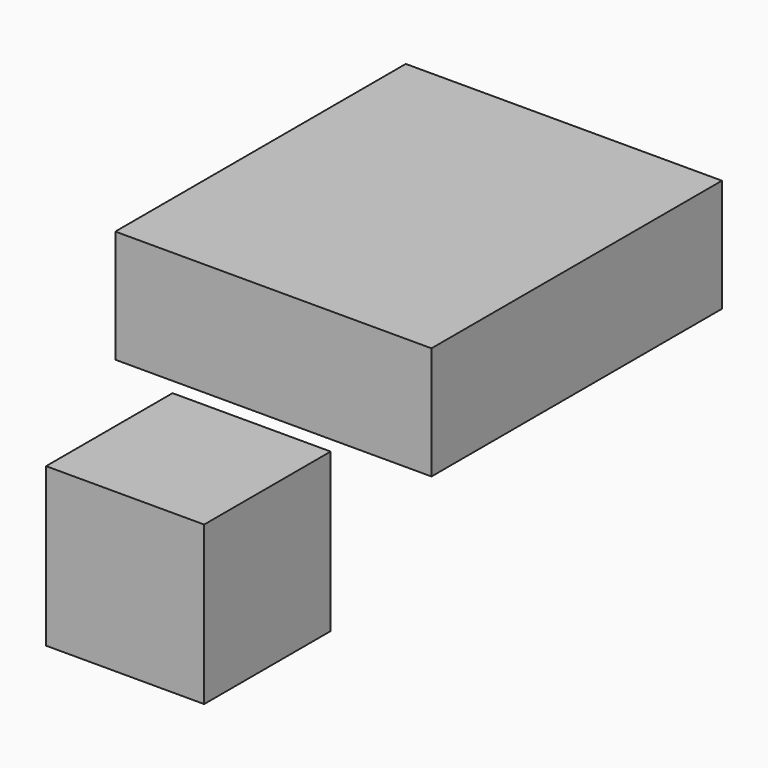
from build123d import *

# Parameters (mm, degrees)
F0_W      = 25.4
F0_H      = 25.4
F1_DEPTH  = 25.4
F2_DEPTH  = 25.4
F3_R      = 8.1587505768
F3_R_2    = 8.1026
F4_DEPTH  = 12.7
F5_R      = 9.6221334919
F6_DEPTH  = 12.7
F7_R      = 8.4187899488
F8_DEPTH  = 13.208
F9_R      = 6.8067308035
F10_DEPTH = 5.588
F11_W     = 58.332407847
F11_H     = 18.1303396821
F12_DEPTH = 50.8
F14_DEPTH = 58.166


with BuildPart() as f1:
    # F0 (on Front) → F1 (new body)
    with BuildSketch(Plane.XZ):
        with Locations((-12.7, 12.7)):
            Rectangle(F0_W, F0_H)
    extrude(amount=F1_DEPTH)

    # F0 (on Front) → F2 (join)
    with BuildSketch(Plane.XZ):
        with Locations((-12.7, 12.7)):
            Rectangle(F0_W, F0_H)
    extrude(amount=F2_DEPTH)

    # F3 (on face) → F4 (join)
    with BuildSketch(Plane.XZ.offset(25.4)):
        with Locations((-11.3450856879, 11.8241375312)):
            Circle(F3_R)
        with Locations((-11.3450856879, 11.8241375312)):
            Circle(F3_R_2, mode=Mode.SUBTRACT)
        with Locations((-11.3450856879, 11.8241375312)):
            Circle(F3_R_2)
    extrude(amount=-F4_DEPTH)

    # F5 (on face) → F6 (join)
    with BuildSketch(Plane.YZ):
        with Locations((-13.1187057123, 12.8094833344)):
            Circle(F5_R)
    extrude(amount=-F6_DEPTH)

    # F7 (on face) → F8 (cut)
    with BuildSketch(Plane(origin=(-25.4, 0, 0), x_dir=(0, -1, 0), z_dir=(-1, 0, 0))):
        with Locations((12.1061233804, 13.0065521225)):
            Circle(F7_R)
    extrude(amount=-F8_DEPTH, mode=Mode.SUBTRACT)

    # F9 (on face) → F10 (cut)
    with BuildSketch(Plane(origin=(-12.192, 0, 0), x_dir=(0, -1, 0), z_dir=(-1, 0, 0))):
        with Locations((12.1061233804, 13.0065521225)):
            Circle(F9_R)
    extrude(amount=-F10_DEPTH, mode=Mode.SUBTRACT)


with BuildPart() as f12:
    # F11 (on Right) → F12 (new body)
    with BuildSketch(Plane.YZ):
        with Locations((-14.0768131241, 65.0327578187)):
            Rectangle(F11_W, F11_H)
    extrude(amount=F12_DEPTH)

    # F13 (on face) → F14 (cut)
    with BuildSketch(Plane(origin=(0, 15.0893907994, 0), x_dir=(-1, 0, 0), z_dir=(0, 1, 0))):
        with BuildLine():
            add(Edge.make_bspline(
                [(-41.8907739222, 68.5800015926), (-41.6314921901, 69.4821352758), (-19.925940684, 77.9589324958), (-10.2704026467, 52.7941414948), (-24.4338228003, 72.0033694044), (-42.1242450817, 67.7676721034), (-41.8907739222, 68.5800015926)],
                knots=[0, 0, 0, 0, 0.277308253, 0.5129791028, 0.7502967956, 1, 1, 1, 1], degree=3))
        make_face()
    extrude(amount=-F14_DEPTH, mode=Mode.SUBTRACT)


solid = Compound([f1.part, f12.part])
